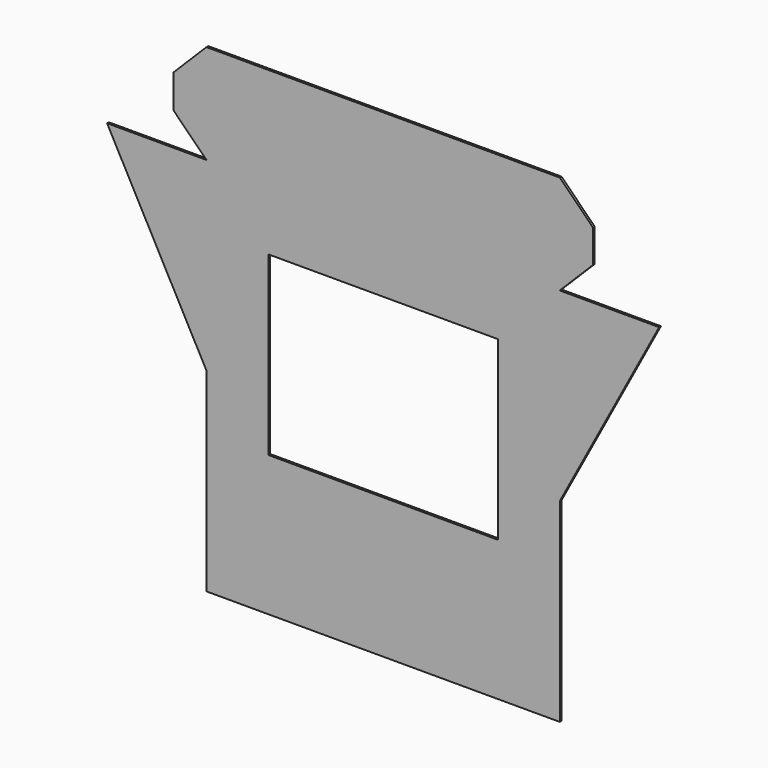
from build123d import *

# Parameters (mm, degrees)
F0_W     = 104
F0_H     = 80
F0_W_2   = 160
F0_H_2   = 45
F1_DEPTH = 1


with BuildPart() as f1:
    # F0 (on Front) → F1 (new body)
    with BuildSketch(Plane.XZ):
        Polygon((-80, 86), (-80, 2), (-80, -86), (-1.5, -86), (4.5, -86), (80, -86), (80, 2), (80, 86), align=None)
        with Locations((0, 17.5)):
            Rectangle(F0_W, F0_H, mode=Mode.SUBTRACT)
        Polygon((102.5, 86), (80, 86), (80, 2), (125, 86), align=None)
        with Locations((0, 108.5)):
            Rectangle(F0_W_2, F0_H_2)
        Polygon((-95, 101), (-80, 86), (-80, 131), (-95, 116), align=None)
        Polygon((-80, 86), (-125, 86), (-80, 2), align=None)
        Polygon((80, 131), (80, 86), (95, 101), (95, 116), align=None)
    extrude(amount=F1_DEPTH)


solid = f1.part
